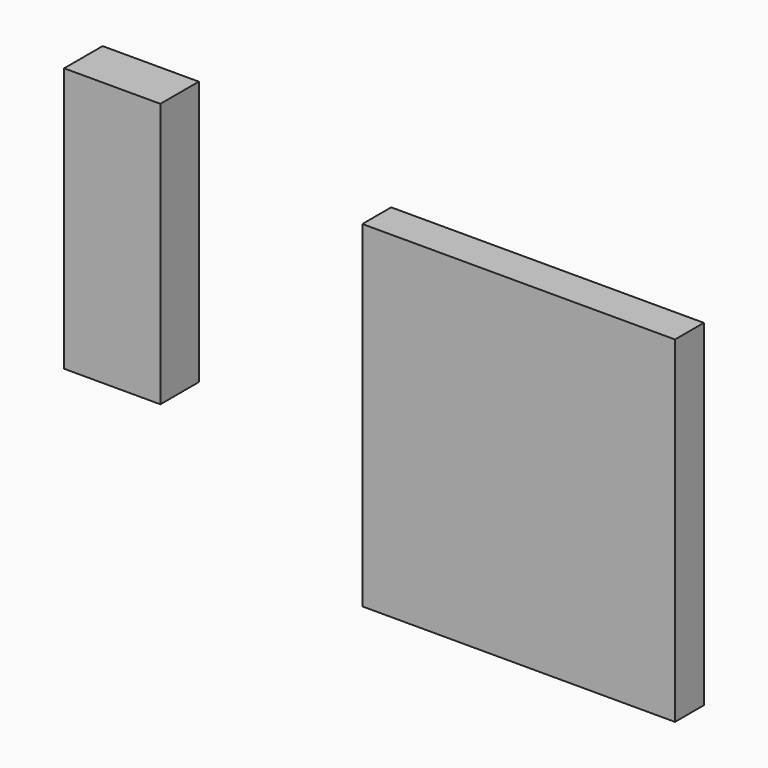
from build123d import *

# Parameters (mm, degrees)
BOX_W        = 13
BOX_H        = 1.5
BOX_DEPTH    = 14
BOX005_W     = 4
BOX005_H     = 2
BOX005_DEPTH = 11


with BuildPart() as cube:
    # Box → Box (new body)
    with BuildSketch(Plane(origin=(1, 8.5, -13), x_dir=(1, 0, 0), z_dir=(0, 0, 1))):
        with Locations((6.5, 0.75)):
            Rectangle(BOX_W, BOX_H)
    extrude(amount=BOX_DEPTH)


with BuildPart() as fusion006007:
    # Box005 → Box005 (new body)
    with BuildSketch(Plane(origin=(-11, 8, -8), x_dir=(1, 0, 0), z_dir=(0, 0, 1))):
        with Locations((2, 1)):
            Rectangle(BOX005_W, BOX005_H)
    extrude(amount=BOX005_DEPTH)

    # Fusion006007: union Cube
    add(cube.part)


solid = fusion006007.part
